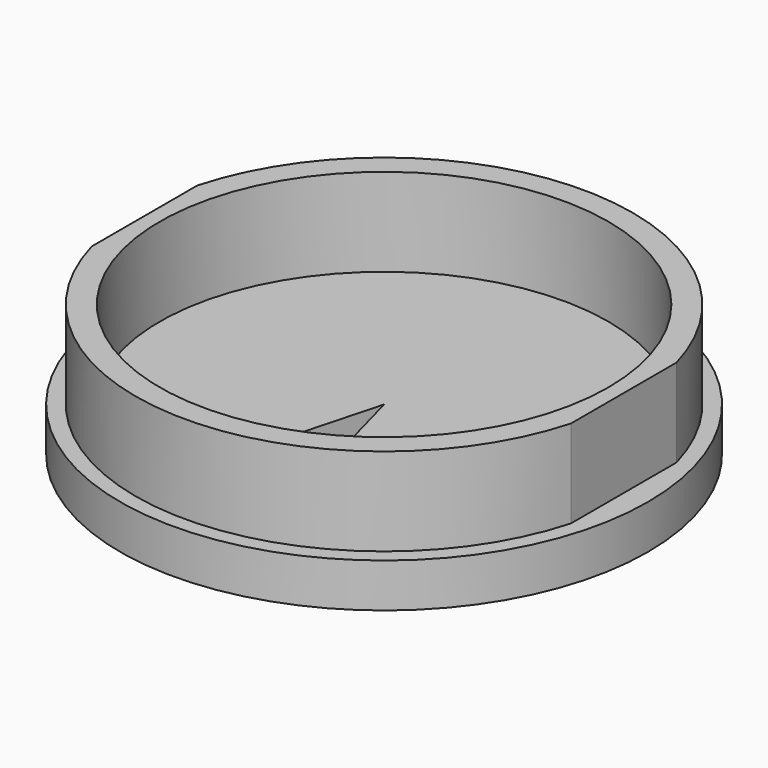
from build123d import *

# Parameters (mm, degrees)
F0_R      = 76.2
F1_DEPTH  = 88.9
F2_R      = 76.2
F2_R_2    = 71.755
F3_DEPTH  = 25.4
F4_R      = 64.77
F5_DEPTH  = 25.4
F11_DEPTH = 63.501
F13_DEPTH = 25.4
F14_R     = 106.3100734062
F15_DEPTH = 50.8


with BuildPart() as f1:
    # F0 (on Top) → F1 (new body)
    with BuildSketch(Plane.XY):
        Circle(F0_R)
    extrude(amount=-F1_DEPTH)

    # F2 (on face) → F3 (cut)
    with BuildSketch(Plane.XY):
        Circle(F2_R)
        Circle(F2_R_2, mode=Mode.SUBTRACT)
    extrude(amount=-F3_DEPTH, mode=Mode.SUBTRACT)

    # F4 (on face) → F5 (cut)
    with BuildSketch(Plane.XY):
        Circle(F4_R)
    extrude(amount=-F5_DEPTH, mode=Mode.SUBTRACT)

    # F7 (on offset) → F11 (cut, through all)
    with BuildSketch(Plane.XY.offset(-25.4)):
        with BuildLine():
            Line((17.5278273627, -64.9877786045), (0, 0))
            Line((0, 0), (-17.5278273627, -64.9877786045))
            ThreePointArc((-17.5278273627, -64.9877786045), (0, -67.31), (17.5278273627, -64.9877786045))
        make_face()
    extrude(amount=-F11_DEPTH, mode=Mode.SUBTRACT)

    # F12 (on face) → F13 (cut)
    with BuildSketch(Plane.XY):
        with BuildLine():
            Line((-69.180037041, 0), (-69.180037041, 19.05))
            ThreePointArc((-69.180037041, 19.05), (-71.755, 0), (-69.180037041, -19.05))
            Line((-69.180037041, -19.05), (-69.180037041, 0))
        make_face()
        with BuildLine():
            ThreePointArc((71.755, 0), (71.1083454416, 9.6116197157), (69.180037041, 19.05))
            Line((69.180037041, 19.05), (69.180037041, 0))
            Line((69.180037041, 0), (69.180037041, -19.05))
            ThreePointArc((69.180037041, -19.05), (71.1083454416, -9.6116197157), (71.755, 0))
        make_face()
    extrude(amount=-F13_DEPTH, mode=Mode.SUBTRACT)

    # F14 (on face) → F15 (cut)
    with BuildSketch(Plane(origin=(0, 0, -88.9), x_dir=(1, 0, 0), z_dir=(0, 0, -1))):
        Circle(F14_R)
    extrude(amount=-F15_DEPTH, mode=Mode.SUBTRACT)


solid = f1.part
